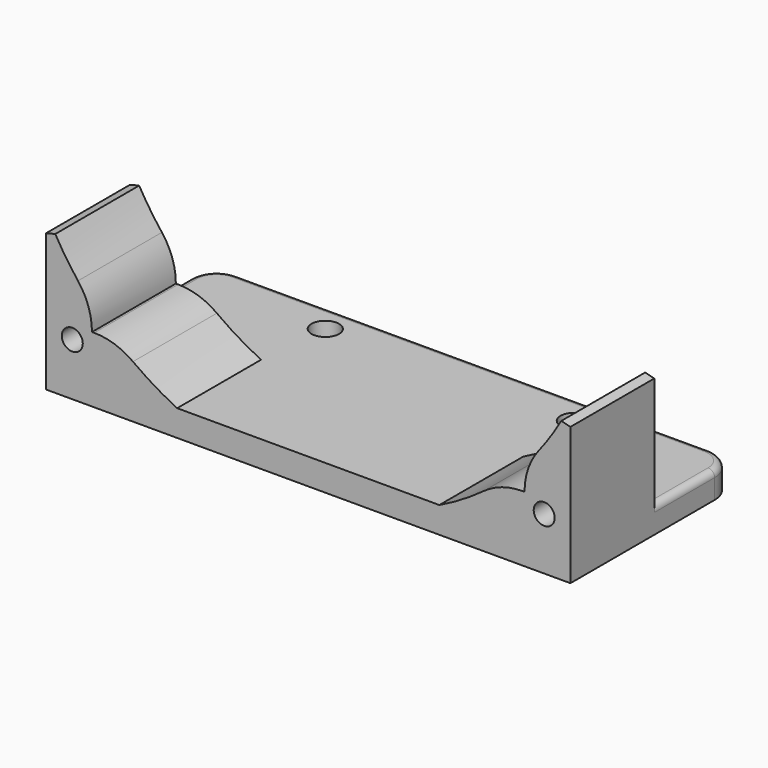
from build123d import *

# Parameters (mm, degrees)
SKETCH_W        = 80
SKETCH_H        = 47
PAD_DEPTH       = 4
SKETCH001_R     = 2.1
POCKET_DEPTH    = 4.001
SKETCH002_W     = 20
SKETCH002_H     = 16
PAD001_DEPTH    = 20
SKETCH003_R     = 1.6
POCKET001_DEPTH = 223.177811
POCKET002_DEPTH = 223.177811
CHAMFER_SIZE    = 3
CHAMFER_FACE9_W = 80
CHAMFER_FACE9_H = 4
POCKET003_DEPTH = 15.5
FILLET_R        = 4
FILLET001_R     = 1
SKETCH005_W     = 15
SKETCH005_H     = 16
POCKET004_DEPTH = 9
FILLET002_R     = 10


with BuildPart() as part:
    # Sketch → Pad (new body)
    with BuildSketch(Plane.XY):
        Rectangle(SKETCH_W, SKETCH_H)
    extrude(amount=PAD_DEPTH)

    # Sketch001 (on Face6 of Pad) → Pocket (cut, through all)
    with BuildSketch(Plane.XY.offset(4)):
        with Locations((-19, 19)):
            Circle(SKETCH001_R)
        with Locations((19, 19)):
            Circle(SKETCH001_R)
        with Locations((19, -19)):
            Circle(SKETCH001_R)
        with Locations((-19, -19)):
            Circle(SKETCH001_R)
    extrude(amount=-POCKET_DEPTH, mode=Mode.SUBTRACT)

    # Sketch002 (on Face5 of Pocket) → Pad001 (join)
    with BuildSketch(Plane.XY.offset(4)):
        with Locations((-30, 0)):
            Rectangle(SKETCH002_W, SKETCH002_H)
    pad001 = extrude(amount=PAD001_DEPTH)

    # Mirrored: Pad001 across YZ
    add(pad001.mirror(Plane.YZ))

    # Sketch003 (on Face15 of Mirrored) → Pocket001 (cut, through all)
    with BuildSketch(Plane.XZ.offset(8)):
        with Locations((-36, 8)):
            Circle(SKETCH003_R)
    pocket001 = extrude(amount=-POCKET001_DEPTH, mode=Mode.SUBTRACT)

    # Mirrored001: Pocket001 across YZ
    add(pocket001.mirror(Plane.YZ), mode=Mode.SUBTRACT)

    # Sketch004 (on Face15 of Mirrored001) → Pocket002 (cut, through all)
    with BuildSketch(Plane.XZ.offset(8)):
        with BuildLine():
            ThreePointArc((-40, 24), (-31.691484, 12.308516), (-20, 4))
            Line((-20, 24), (-20, 4))
            Line((-40, 24), (-20, 24))
        make_face()
    pocket002 = extrude(amount=-POCKET002_DEPTH, mode=Mode.SUBTRACT)

    # Mirrored002: Pocket002 across Sketch004 V_Axis
    add(pocket002.mirror(Plane(origin=(0, -8, 0), x_dir=(0, -1, 0), z_dir=(1, 0, 0))), mode=Mode.SUBTRACT)

    # Chamfer
    chamfer_edges = [part.edges().sort_by_distance(p)[0] for p in [
        (-40, 0, 24),
        (40, 0, 24),
    ]]
    chamfer(chamfer_edges, length=CHAMFER_SIZE)

    # Chamfer Face9 → Pocket003 (cut)
    with BuildSketch(Plane(origin=(0, -23.5, 2), x_dir=(-1, 0, 0), z_dir=(0, -1, 0))):
        Rectangle(CHAMFER_FACE9_W, CHAMFER_FACE9_H)
    extrude(amount=-POCKET003_DEPTH, mode=Mode.SUBTRACT)

    # Fillet
    fillet_edges = [part.edges().sort_by_distance(p)[0] for p in [
        (-40, 23.5, 2),
        (40, 23.5, 2),
    ]]
    fillet(fillet_edges, radius=FILLET_R)

    # Fillet001
    fillet001_edges = [part.edges().sort_by_distance(p)[0] for p in [
        (40, 13.75, 4),
    ]]
    fillet(fillet001_edges, radius=FILLET001_R)

    # Sketch005 (on DatumPlane) → Pocket004 (cut)
    with BuildSketch(Plane.XY.offset(10)):
        with Locations((-25.5, 0)):
            Rectangle(SKETCH005_W, SKETCH005_H)
    pocket004 = extrude(amount=POCKET004_DEPTH, mode=Mode.SUBTRACT)

    # Mirrored003: Pocket004 across Sketch005 V_Axis
    add(pocket004.mirror(Plane(origin=(0, 0, 10), x_dir=(0, 0, 1), z_dir=(1, 0, 0))), mode=Mode.SUBTRACT)

    # Fillet002
    fillet002_edges = [part.edges().sort_by_distance(p)[0] for p in [
        (33, 0, 13.675937),
        (29.19265, 0, 10),
        (-33, 0, 13.675937),
        (-29.19265, 0, 10),
    ]]
    fillet(fillet002_edges, radius=FILLET002_R)


solid = part.part
